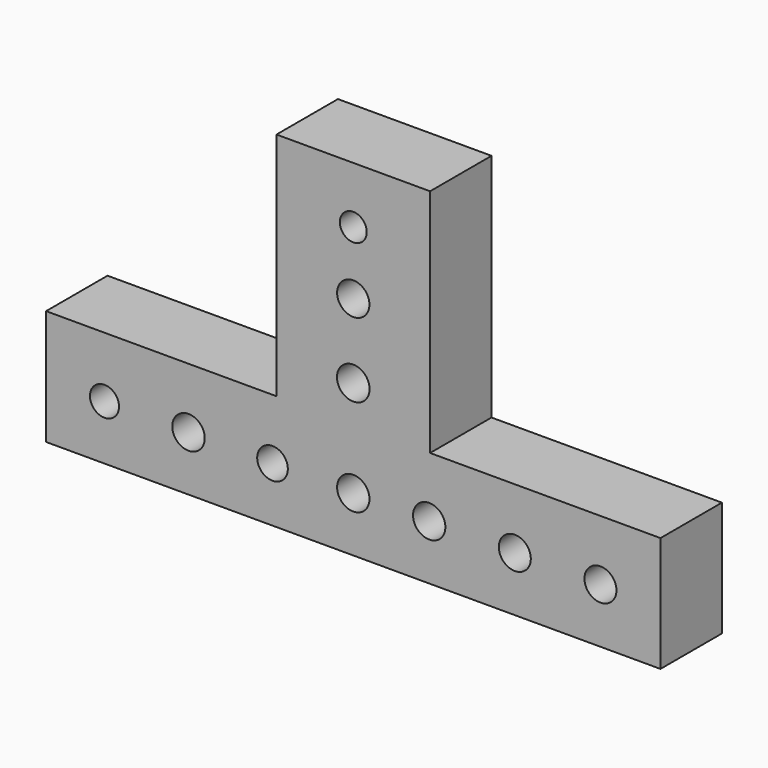
from build123d import *

# Parameters (mm, degrees)
F0_R     = 2.404306
F0_R_2   = 2.684776
F0_R_3   = 2.53436
F0_R_4   = 2.677502
F0_R_5   = 2.694859
F0_R_6   = 2.671458
F0_R_7   = 2.644601
F0_R_8   = 2.644603
F0_R_9   = 2.672879
F0_R_10  = 2.225712
F1_DEPTH = 12.7


with BuildPart() as f1:
    # F0 (on Front) → F1 (new body)
    with BuildSketch(Plane.XZ):
        Polygon((-42.251352, -15.345026), (59.348648, -15.345026), (59.348648, 3.704974), (21.248648, 3.704974), (21.248648, 41.804974), (-4.151352, 41.804974), (-4.151352, 3.704974), (-42.251352, 3.704974), align=None)
        with Locations((-32.591719, -6.277913)):
            Circle(F0_R, mode=Mode.SUBTRACT)
        with Locations((-18.700166, -6.277913)):
            Circle(F0_R_2, mode=Mode.SUBTRACT)
        with Locations((-4.808613, -6.277913)):
            Circle(F0_R_3, mode=Mode.SUBTRACT)
        with Locations((8.548648, -6.277913)):
            Circle(F0_R_4, mode=Mode.SUBTRACT)
        with Locations((8.548648, 9.750801)):
            Circle(F0_R_5, mode=Mode.SUBTRACT)
        with Locations((21.104472, -6.277913)):
            Circle(F0_R_6, mode=Mode.SUBTRACT)
        with Locations((35.26317, -6.277913)):
            Circle(F0_R_7, mode=Mode.SUBTRACT)
        with Locations((49.421869, -6.277913)):
            Circle(F0_R_8, mode=Mode.SUBTRACT)
        with Locations((8.548648, 22.039484)):
            Circle(F0_R_9, mode=Mode.SUBTRACT)
        with Locations((8.548648, 32.458149)):
            Circle(F0_R_10, mode=Mode.SUBTRACT)
    extrude(amount=F1_DEPTH)


solid = f1.part
